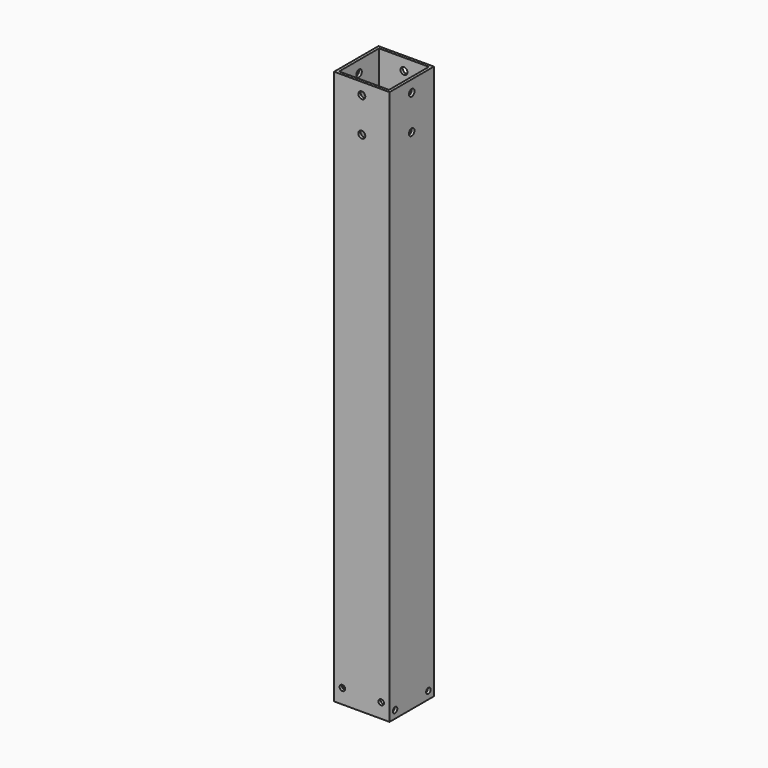
from build123d import *

# Parameters (mm, degrees)
F0_W     = 40
F0_H     = 40
F0_W_2   = 36
F0_H_2   = 36
F1_DEPTH = 400
F2_R     = 2
F3_DEPTH = 40
F4_R     = 2
F5_DEPTH = 40
F6_R     = 2.5
F7_DEPTH = 40
F8_R     = 2.5
F9_DEPTH = 40


with BuildPart() as f1:
    # F0 (on Top) → F1 (new body)
    with BuildSketch(Plane.XY):
        Rectangle(F0_W, F0_H)
        Rectangle(F0_W_2, F0_H_2, mode=Mode.SUBTRACT)
    extrude(amount=F1_DEPTH)

    # F2 (on face) → F3 (cut)
    with BuildSketch(Plane.YZ.offset(20)):
        with Locations((-15, 5.5)):
            Circle(F2_R)
        with Locations((15, 5.5)):
            Circle(F2_R)
    extrude(amount=-F3_DEPTH, mode=Mode.SUBTRACT)

    # F4 (on face) → F5 (cut)
    with BuildSketch(Plane.XZ.offset(20)):
        with Locations((-14, 10.5)):
            Circle(F4_R)
        with Locations((14, 10.5)):
            Circle(F4_R)
    extrude(amount=-F5_DEPTH, mode=Mode.SUBTRACT)

    # F6 (on face) → F7 (cut)
    with BuildSketch(Plane.YZ.offset(20)):
        with Locations((0, 391.5)):
            Circle(F6_R)
        with Locations((0, 366.5)):
            Circle(F6_R)
    extrude(amount=-F7_DEPTH, mode=Mode.SUBTRACT)

    # F8 (on face) → F9 (cut)
    with BuildSketch(Plane.XZ.offset(20)):
        with Locations((0, 391.5)):
            Circle(F8_R)
        with Locations((0, 366.5)):
            Circle(F8_R)
    extrude(amount=-F9_DEPTH, mode=Mode.SUBTRACT)


solid = f1.part
